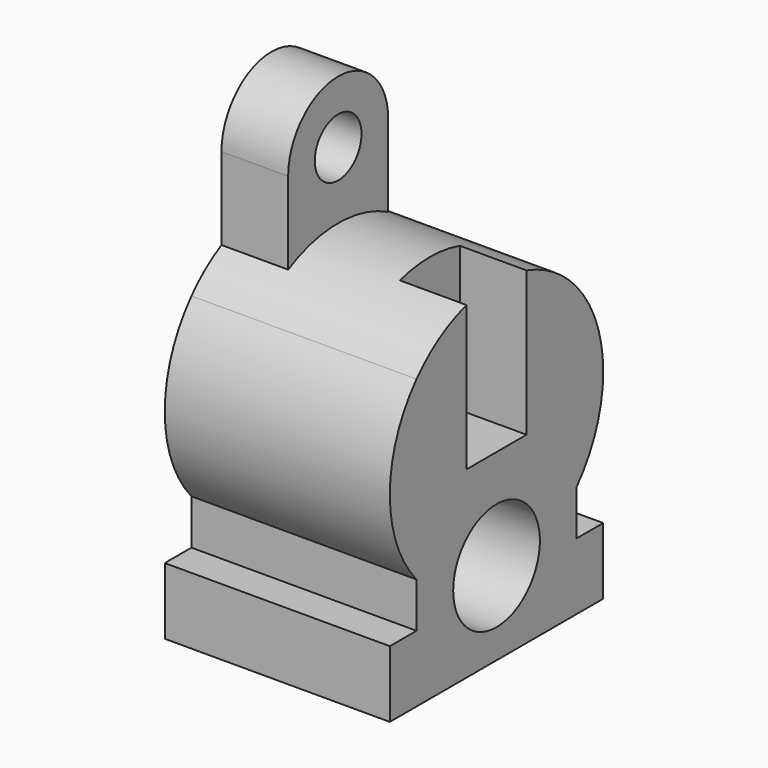
from build123d import *

# Parameters (mm, degrees)
F0_W          = 4
F0_H          = 8
F1_DEPTH      = 13.5
F3_D          = 13
F4_W          = 8
F4_H          = 9
F4_H_2        = 3
F5_DEPTH      = 31.5
F6_DEPTH      = 110
F6_DEPTH_BACK = 2
F8_D          = 7
F9_DEPTH      = 25


with BuildPart() as f1:
    # F0 (on Right) → F1 (new body, symmetric)
    with BuildSketch(Plane.YZ):
        with BuildLine():
            Line((12, 0), (12, 10.5830052443))
            ThreePointArc((12, 10.5830052443), (0, 16), (-12, 10.5830052443))
            Line((-12, 10.5830052443), (-12, 0))
            Line((-12, 0), (12, 0))
        make_face()
        with BuildLine():
            Line((12, 0), (16, 0))
            ThreePointArc((16, 0), (14.9666295471, 5.6568542495), (12, 10.5830052443))
            Line((12, 10.5830052443), (12, 0))
        make_face()
        with BuildLine():
            Line((12, -10.5830052443), (12, 0))
            Line((12, 0), (-12, 0))
            Line((-12, 0), (-12, -10.5830052443))
            ThreePointArc((-12, -10.5830052443), (-6.5830052443, -14.5830052443), (0, -16))
            ThreePointArc((0, -16), (6.5830052443, -14.5830052443), (12, -10.5830052443))
        make_face()
        with BuildLine():
            ThreePointArc((12, -10.5830052443), (14.9666295471, -5.6568542495), (16, 0))
            Line((16, 0), (12, 0))
            Line((12, 0), (12, -10.5830052443))
        make_face()
        with BuildLine():
            Line((-12, 0), (-12, 10.5830052443))
            ThreePointArc((-12, 10.5830052443), (-14.9666295471, 5.6568542495), (-16, 0))
            Line((-16, 0), (-12, 0))
        make_face()
        with BuildLine():
            Line((-12, -10.5830052443), (-12, 0))
            Line((-12, 0), (-16, 0))
            ThreePointArc((-16, 0), (-14.9666295471, -5.6568542495), (-12, -10.5830052443))
        make_face()
        with BuildLine():
            Line((-12, -16), (0, -16))
            ThreePointArc((0, -16), (-6.5830052443, -14.5830052443), (-12, -10.5830052443))
            Line((-12, -10.5830052443), (-12, -16))
        make_face()
        Polygon((12, -24), (12, -16), (0, -16), (-12, -16), (-12, -24), align=None)
        with Locations((-14, -20)):
            Rectangle(F0_W, F0_H)
        with BuildLine():
            Line((12, -16), (12, -10.5830052443))
            ThreePointArc((12, -10.5830052443), (6.5830052443, -14.5830052443), (0, -16))
            Line((0, -16), (12, -16))
        make_face()
        with Locations((14, -20)):
            Rectangle(F0_W, F0_H)
    extrude(amount=F1_DEPTH, both=True)

    # F3 (through all)
    with Locations(Plane.YZ.offset(13.5)):
        with Locations((0, -14)):
            Hole(F3_D / 2)

    # F4 (on Top) → F5 (join)
    with BuildSketch(Plane.XY):
        with Locations((-9.5, 0)):
            Rectangle(F4_W, F4_H)
        with Locations((-9.5, 6)):
            Rectangle(F4_W, F4_H_2)
        with Locations((-9.5, -6)):
            Rectangle(F4_W, F4_H_2)
    extrude(amount=F5_DEPTH)

    # F4 (on Top) → F6 (cut, two sides)
    with BuildSketch(Plane.XY) as f6_sk:
        with Locations((9.5, 0)):
            Rectangle(F4_W, F4_H)
    extrude(amount=F6_DEPTH, mode=Mode.SUBTRACT)
    extrude(f6_sk.sketch, amount=-F6_DEPTH_BACK, mode=Mode.SUBTRACT)

    # F8 (through all)
    with Locations(Plane(origin=(-13.5, 0, 0), x_dir=(0, -1, 0), z_dir=(-1, 0, 0))):
        with Locations((0, 24)):
            Hole(F8_D / 2)

    # F7 (on face) → F9 (cut)
    with BuildSketch(Plane(origin=(-13.5, 0, 0), x_dir=(0, -1, 0), z_dir=(-1, 0, 0))):
        with BuildLine():
            Line((7.5, 24), (7.5, 31.5))
            Line((7.5, 31.5), (0, 31.5))
            ThreePointArc((0, 31.5), (5.3033008589, 29.3033008589), (7.5, 24))
        make_face()
        with BuildLine():
            ThreePointArc((-7.5, 24), (-5.3033008589, 29.3033008589), (0, 31.5))
            Line((0, 31.5), (-7.5, 31.5))
            Line((-7.5, 31.5), (-7.5, 24))
        make_face()
    extrude(amount=-F9_DEPTH, mode=Mode.SUBTRACT)


solid = f1.part
